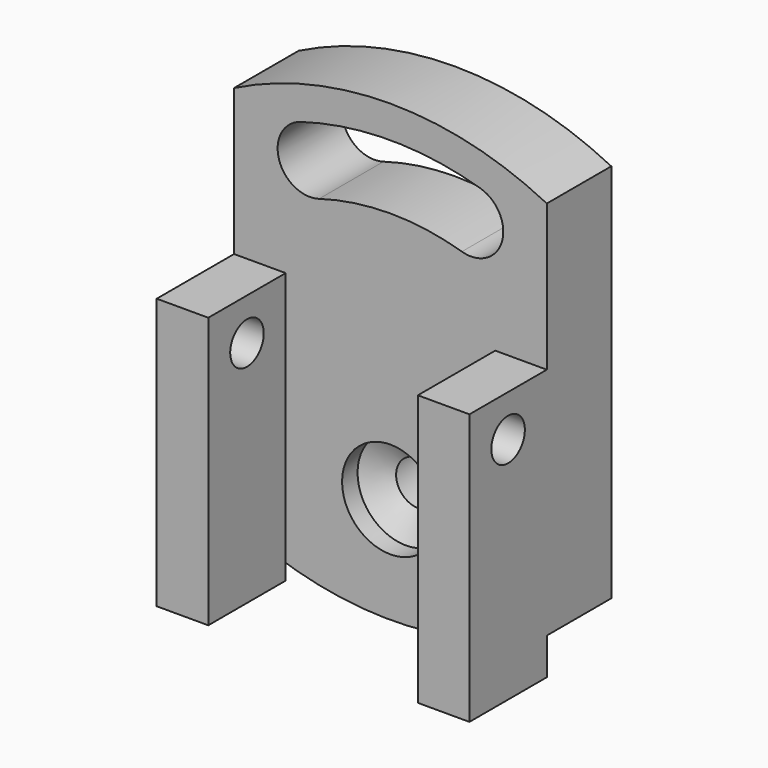
from build123d import *

# Parameters (mm, degrees)
F1_DEPTH = 25
F2_D     = 21
F2_DEPTH = 12
F2_TIP   = 6.3090364998
F4_D     = 30
F4_DEPTH = 6
F4_TIP   = 9.0129092854
F6_DEPTH = 16
F7_W     = 30
F7_H     = 84
F8_DEPTH = 16
F10_D    = 13
F10_2_D  = 13


with BuildPart() as f1:
    # F0 (on Front) → F1 (new body)
    with BuildSketch(Plane.XZ):
        with BuildLine():
            ThreePointArc((-86.2202922475, 206.3332887963), (-134.7202922475, 217.8358795047), (-183.2202922475, 206.3332887963))
            Line((-183.2202922475, 206.3332887963), (-183.2202922475, 88.338470213))
            ThreePointArc((-183.2202922475, 88.338470213), (-134.7202922475, 76.8358795047), (-86.2202922475, 88.338470213))
            Line((-86.2202922475, 88.338470213), (-86.2202922475, 206.3332887963))
        make_face()
        with BuildLine():
            ThreePointArc((-162.5612013385, 203.7980196516), (-134.7224408787, 207.8358794811), (-106.8835033872, 203.7992403745))
            ThreePointArc((-106.8835033872, 203.7992403745), (-100.1358939985, 191.3706536673), (-112.5644807056, 184.6230442786))
            ThreePointArc((-112.5644807056, 184.6230442786), (-134.7220023826, 187.8358794859), (-156.8793831566, 184.6220726829))
            ThreePointArc((-156.8793831566, 184.6220726829), (-169.3082657319, 191.3691370763), (-162.5612013385, 203.7980196516))
        make_face(mode=Mode.SUBTRACT)
    extrude(amount=F1_DEPTH)

    # F2
    with Locations(Plane(origin=(0, 0, 0), x_dir=(1, 0, 0), z_dir=(0, 1, 0))):
        with Locations((-134.7202922475, -109.8358795047)):
            Hole(F2_D / 2, depth=F2_DEPTH)
            with Locations((0, 0, -(F2_DEPTH + F2_TIP / 2))):  # 118° drill point
                Cone(0, F2_D / 2, F2_TIP, mode=Mode.SUBTRACT)

    # F4
    with Locations(Plane.XZ.offset(25)):
        with Locations((-134.73290205, 109.7232922912)):
            Hole(F4_D / 2, depth=F4_DEPTH)
            with Locations((0, 0, -(F4_DEPTH + F4_TIP / 2))):  # 118° drill point
                Cone(0, F4_D / 2, F4_TIP, mode=Mode.SUBTRACT)

    # F5 (on face) → F6 (join)
    with BuildSketch(Plane.YZ.offset(-86.2202922475)):
        Polygon((-55, 76.9482627511), (-25, 76.9482627511), (-25, 88.338470213), (-25, 160.9482627511), (-55, 160.9482627511), align=None)
    extrude(amount=-F6_DEPTH)

    # F10 (through all)
    with Locations(Plane(origin=(-183.2202922475, 0, 0), x_dir=(0, -1, 0), z_dir=(-1, 0, 0))):
        with Locations((40.0165704638, 147.9926086068)):
            Hole(F10_D / 2)


with BuildPart() as f8:
    # F7 (on face) → F8 (new body)
    with BuildSketch(Plane(origin=(-183.2202922475, 0, 0), x_dir=(0, -1, 0), z_dir=(-1, 0, 0))):
        with Locations((40.0165704638, 118.9926086068)):
            Rectangle(F7_W, F7_H)
    extrude(amount=-F8_DEPTH)

    # F10#2 (through all)
    with Locations(Plane(origin=(-183.2202922475, 0, 0), x_dir=(0, -1, 0), z_dir=(-1, 0, 0))):
        with Locations((40.0165704638, 147.9926086068)):
            Hole(F10_2_D / 2)


solid = Compound([f1.part, f8.part])
